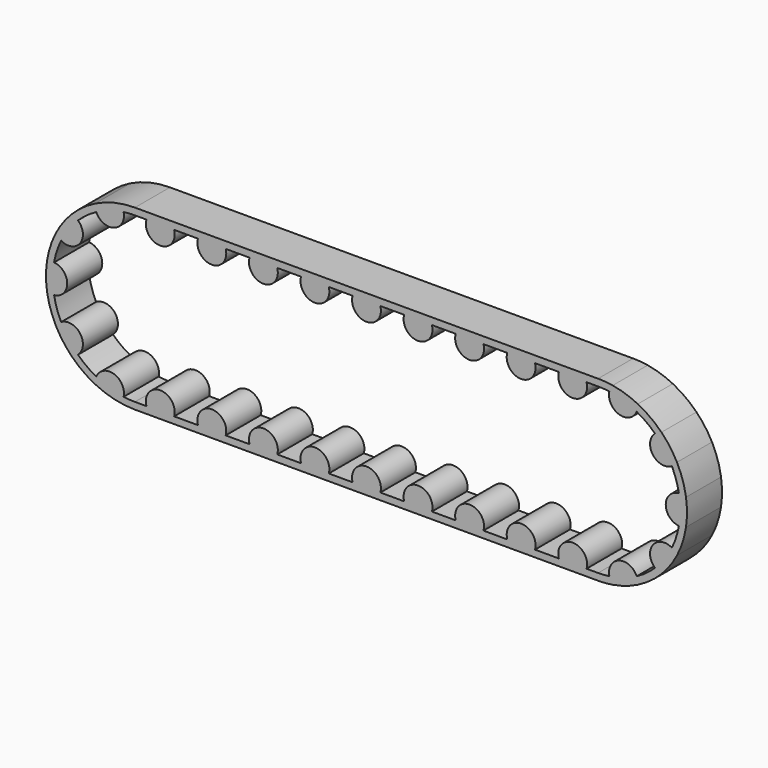
from build123d import *

# Parameters (mm, degrees)
F3_DEPTH = 25.4


with BuildPart() as f3:
    # F2 (on Front) → F3 (new body)
    with BuildSketch(Plane.XZ):
        with BuildLine():
            ThreePointArc((-6.5580901404, 47.171305671), (-3.2868824452, 47.5114410305), (0, 47.625))
            Line((0, 47.625), (6.6759446819, 47.625))
            ThreePointArc((6.6759446819, 47.625), (7.6523000339, 49.786472114), (9.1956373991, 51.5874))
            Line((9.1956373991, 51.5874), (0, 51.5874))
            ThreePointArc((0, 51.5874), (-4.2571154541, 51.4114462622), (-8.485190663, 50.8847853309))
            ThreePointArc((-8.485190663, 50.8847853309), (-7.2859359113, 49.1503637276), (-6.5580901404, 47.171305671))
        make_face()
        with BuildLine():
            ThreePointArc((-22.4209914306, 42.0171366024), (-14.7169343571, 45.2940665886), (-6.5580901404, 47.171305671))
            ThreePointArc((-6.5580901404, 47.171305671), (-7.2859359113, 49.1503637276), (-8.485190663, 50.8847853309))
            ThreePointArc((-8.485190663, 50.8847853309), (-15.9413832956, 49.0625329287), (-23.0446629367, 46.1541260224))
            ThreePointArc((-23.0446629367, 46.1541260224), (-22.9954129717, 44.0460452131), (-22.4209914306, 42.0171366024))
        make_face()
        with BuildLine():
            ThreePointArc((9.1956373991, 51.5874), (7.6523000339, 49.786472114), (6.6759446819, 47.625))
            Line((6.6759446819, 47.625), (22.7579240323, 47.625))
            ThreePointArc((22.7579240323, 47.625), (21.7815686803, 49.786472114), (20.2382313151, 51.5874))
            Line((20.2382313151, 51.5874), (9.1956373991, 51.5874))
        make_face()
        with BuildLine():
            ThreePointArc((-33.032204179, 34.307639267), (-27.9932726404, 38.5294343571), (-22.4209914306, 42.0171366024))
            ThreePointArc((-22.4209914306, 42.0171366024), (-22.9954129717, 44.0460452131), (-23.0446629367, 46.1541260224))
            ThreePointArc((-23.0446629367, 46.1541260224), (-30.3223129241, 41.7350832956), (-36.7739898304, 36.1791861533))
            ThreePointArc((-36.7739898304, 36.1791861533), (-34.7843049161, 35.4809138575), (-33.032204179, 34.307639267))
        make_face()
        with BuildLine():
            ThreePointArc((20.2382313151, 51.5874), (21.7815686803, 49.786472114), (22.7579240323, 47.625))
            Line((22.7579240323, 47.625), (36.5771902535, 47.625))
            ThreePointArc((36.5771902535, 47.625), (37.5535456055, 49.786472114), (39.0968829707, 51.5874))
            Line((39.0968829707, 51.5874), (20.2382313151, 51.5874))
        make_face()
        with BuildLine():
            ThreePointArc((-42.8360163366, 20.8138494617), (-38.5294343571, 27.9932726404), (-33.032204179, 34.307639267))
            ThreePointArc((-33.032204179, 34.307639267), (-34.7843049161, 35.4809138575), (-36.7739898304, 36.1791861533))
            ThreePointArc((-36.7739898304, 36.1791861533), (-41.7350832956, 30.3223129241), (-45.7722385539, 23.7941592944))
            ThreePointArc((-45.7722385539, 23.7941592944), (-44.4932956849, 22.1176344973), (-42.8360163366, 20.8138494617))
        make_face()
        with BuildLine():
            ThreePointArc((39.0968829707, 51.5874), (37.5535456055, 49.786472114), (36.5771902535, 47.625))
            Line((36.5771902535, 47.625), (52.6591696039, 47.625))
            ThreePointArc((52.6591696039, 47.625), (51.6828142519, 49.786472114), (50.1394768867, 51.5874))
            Line((50.1394768867, 51.5874), (39.0968829707, 51.5874))
        make_face()
        with BuildLine():
            ThreePointArc((-46.8891389446, 8.3396207368), (-45.2940665886, 14.7169343571), (-42.8360163366, 20.8138494617))
            ThreePointArc((-42.8360163366, 20.8138494617), (-44.4932956849, 22.1176344973), (-45.7722385539, 23.7941592944))
            ThreePointArc((-45.7722385539, 23.7941592944), (-49.0625329287, 15.9413832956), (-51.0163747846, 7.6543675504))
            ThreePointArc((-51.0163747846, 7.6543675504), (-48.9962517179, 8.2589608458), (-46.8891389446, 8.3396207368))
        make_face()
        with BuildLine():
            ThreePointArc((50.1394768867, 51.5874), (51.6828142519, 49.786472114), (52.6591696039, 47.625))
            Line((52.6591696039, 47.625), (66.478435825, 47.625))
            ThreePointArc((66.478435825, 47.625), (67.4547911771, 49.786472114), (68.9981285423, 51.5874))
            Line((68.9981285423, 51.5874), (50.1394768867, 51.5874))
        make_face()
        with BuildLine():
            ThreePointArc((-46.8891389446, -8.3396207368), (-47.625, 0), (-46.8891389446, 8.3396207368))
            ThreePointArc((-46.8891389446, 8.3396207368), (-48.9962517179, 8.2589608458), (-51.0163747846, 7.6543675504))
            ThreePointArc((-51.0163747846, 7.6543675504), (-51.5874, 0), (-51.0163747846, -7.6543675504))
            ThreePointArc((-51.0163747846, -7.6543675504), (-48.9962517179, -8.2589608458), (-46.8891389446, -8.3396207368))
        make_face()
        with BuildLine():
            ThreePointArc((68.9981285423, 51.5874), (67.4547911771, 49.786472114), (66.478435825, 47.625))
            Line((66.478435825, 47.625), (82.5604151755, 47.625))
            ThreePointArc((82.5604151755, 47.625), (81.5840598235, 49.786472114), (80.0407224583, 51.5874))
            Line((80.0407224583, 51.5874), (68.9981285423, 51.5874))
        make_face()
        with BuildLine():
            ThreePointArc((-42.8360163366, -20.8138494617), (-45.2940665886, -14.7169343571), (-46.8891389446, -8.3396207368))
            ThreePointArc((-46.8891389446, -8.3396207368), (-48.9962517179, -8.2589608458), (-51.0163747846, -7.6543675504))
            ThreePointArc((-51.0163747846, -7.6543675504), (-49.0625329287, -15.9413832956), (-45.7722385539, -23.7941592944))
            ThreePointArc((-45.7722385539, -23.7941592944), (-44.4932956849, -22.1176344973), (-42.8360163366, -20.8138494617))
        make_face()
        with BuildLine():
            ThreePointArc((80.0407224583, 51.5874), (81.5840598235, 49.786472114), (82.5604151755, 47.625))
            Line((82.5604151755, 47.625), (96.3796813966, 47.625))
            ThreePointArc((96.3796813966, 47.625), (97.3560367487, 49.786472114), (98.8993741139, 51.5874))
            Line((98.8993741139, 51.5874), (80.0407224583, 51.5874))
        make_face()
        with BuildLine():
            ThreePointArc((-33.032204179, -34.307639267), (-38.5294343571, -27.9932726404), (-42.8360163366, -20.8138494617))
            ThreePointArc((-42.8360163366, -20.8138494617), (-44.4932956849, -22.1176344973), (-45.7722385539, -23.7941592944))
            ThreePointArc((-45.7722385539, -23.7941592944), (-41.7350832956, -30.3223129241), (-36.7739898304, -36.1791861533))
            ThreePointArc((-36.7739898304, -36.1791861533), (-34.7843049161, -35.4809138575), (-33.032204179, -34.307639267))
        make_face()
        with BuildLine():
            ThreePointArc((98.8993741139, 51.5874), (97.3560367487, 49.786472114), (96.3796813966, 47.625))
            Line((96.3796813966, 47.625), (112.4616607471, 47.625))
            ThreePointArc((112.4616607471, 47.625), (111.485305395, 49.786472114), (109.9419680298, 51.5874))
            Line((109.9419680298, 51.5874), (98.8993741139, 51.5874))
        make_face()
        with BuildLine():
            ThreePointArc((-22.4209914306, -42.0171366024), (-27.9932726404, -38.5294343571), (-33.032204179, -34.307639267))
            ThreePointArc((-33.032204179, -34.307639267), (-34.7843049161, -35.4809138575), (-36.7739898304, -36.1791861533))
            ThreePointArc((-36.7739898304, -36.1791861533), (-30.3223129241, -41.7350832956), (-23.0446629367, -46.1541260224))
            ThreePointArc((-23.0446629367, -46.1541260224), (-22.9954129717, -44.0460452131), (-22.4209914306, -42.0171366024))
        make_face()
        with BuildLine():
            ThreePointArc((109.9419680298, 51.5874), (111.485305395, 49.786472114), (112.4616607471, 47.625))
            Line((112.4616607471, 47.625), (126.2809269682, 47.625))
            ThreePointArc((126.2809269682, 47.625), (127.2572823202, 49.786472114), (128.8006196855, 51.5874))
            Line((128.8006196855, 51.5874), (109.9419680298, 51.5874))
        make_face()
        with BuildLine():
            ThreePointArc((-6.5580901404, -47.171305671), (-14.7169343571, -45.2940665886), (-22.4209914306, -42.0171366024))
            ThreePointArc((-22.4209914306, -42.0171366024), (-22.9954129717, -44.0460452131), (-23.0446629367, -46.1541260224))
            ThreePointArc((-23.0446629367, -46.1541260224), (-15.9413832956, -49.0625329287), (-8.485190663, -50.8847853309))
            ThreePointArc((-8.485190663, -50.8847853309), (-7.2859359113, -49.1503637276), (-6.5580901404, -47.171305671))
        make_face()
        with BuildLine():
            ThreePointArc((128.8006196855, 51.5874), (127.2572823202, 49.786472114), (126.2809269682, 47.625))
            Line((126.2809269682, 47.625), (142.3629063187, 47.625))
            ThreePointArc((142.3629063187, 47.625), (141.3865509666, 49.786472114), (139.8432136014, 51.5874))
            Line((139.8432136014, 51.5874), (128.8006196855, 51.5874))
        make_face()
        with BuildLine():
            ThreePointArc((0, -47.625), (-3.2868824452, -47.5114410305), (-6.5580901404, -47.171305671))
            ThreePointArc((-6.5580901404, -47.171305671), (-7.2859359113, -49.1503637276), (-8.485190663, -50.8847853309))
            ThreePointArc((-8.485190663, -50.8847853309), (-4.2571154541, -51.4114462622), (0, -51.5874))
            Line((0, -51.5874), (9.1956373991, -51.5874))
            ThreePointArc((9.1956373991, -51.5874), (7.6523000339, -49.786472114), (6.6759446819, -47.625))
            Line((6.6759446819, -47.625), (0, -47.625))
        make_face()
        with BuildLine():
            ThreePointArc((139.8432136014, 51.5874), (141.3865509666, 49.786472114), (142.3629063187, 47.625))
            Line((142.3629063187, 47.625), (156.1821725398, 47.625))
            ThreePointArc((156.1821725398, 47.625), (157.1585278918, 49.786472114), (158.701865257, 51.5874))
            Line((158.701865257, 51.5874), (139.8432136014, 51.5874))
        make_face()
        with BuildLine():
            ThreePointArc((158.701865257, 51.5874), (157.1585278918, 49.786472114), (156.1821725398, 47.625))
            Line((156.1821725398, 47.625), (172.2641518903, 47.625))
            ThreePointArc((172.2641518903, 47.625), (171.2877965382, 49.786472114), (169.744459173, 51.5874))
            Line((169.744459173, 51.5874), (158.701865257, 51.5874))
        make_face()
        with BuildLine():
            Line((22.7579240323, -47.625), (6.6759446819, -47.625))
            ThreePointArc((6.6759446819, -47.625), (7.6523000339, -49.786472114), (9.1956373991, -51.5874))
            Line((9.1956373991, -51.5874), (20.2382313151, -51.5874))
            ThreePointArc((20.2382313151, -51.5874), (21.7815686803, -49.786472114), (22.7579240323, -47.625))
        make_face()
        with BuildLine():
            ThreePointArc((169.744459173, 51.5874), (171.2877965382, 49.786472114), (172.2641518903, 47.625))
            Line((172.2641518903, 47.625), (186.0834181114, 47.625))
            ThreePointArc((186.0834181114, 47.625), (187.0597734634, 49.786472114), (188.6031108286, 51.5874))
            Line((188.6031108286, 51.5874), (169.744459173, 51.5874))
        make_face()
        with BuildLine():
            Line((36.5771902535, -47.625), (22.7579240323, -47.625))
            ThreePointArc((22.7579240323, -47.625), (21.7815686803, -49.786472114), (20.2382313151, -51.5874))
            Line((20.2382313151, -51.5874), (39.0968829707, -51.5874))
            ThreePointArc((39.0968829707, -51.5874), (37.5535456055, -49.786472114), (36.5771902535, -47.625))
        make_face()
        with BuildLine():
            ThreePointArc((188.6031108286, 51.5874), (187.0597734634, 49.786472114), (186.0834181114, 47.625))
            Line((186.0834181114, 47.625), (202.1653974618, 47.625))
            ThreePointArc((202.1653974618, 47.625), (201.1890421098, 49.786472114), (199.6457047446, 51.5874))
            Line((199.6457047446, 51.5874), (188.6031108286, 51.5874))
        make_face()
        with BuildLine():
            Line((52.6591696039, -47.625), (36.5771902535, -47.625))
            ThreePointArc((36.5771902535, -47.625), (37.5535456055, -49.786472114), (39.0968829707, -51.5874))
            Line((39.0968829707, -51.5874), (50.1394768867, -51.5874))
            ThreePointArc((50.1394768867, -51.5874), (51.6828142519, -49.786472114), (52.6591696039, -47.625))
        make_face()
        with BuildLine():
            ThreePointArc((199.6457047446, 51.5874), (201.1890421098, 49.786472114), (202.1653974618, 47.625))
            Line((202.1653974618, 47.625), (215.984663683, 47.625))
            ThreePointArc((215.984663683, 47.625), (216.961019035, 49.786472114), (218.5043564002, 51.5874))
            Line((218.5043564002, 51.5874), (199.6457047446, 51.5874))
        make_face()
        with BuildLine():
            Line((66.478435825, -47.625), (52.6591696039, -47.625))
            ThreePointArc((52.6591696039, -47.625), (51.6828142519, -49.786472114), (50.1394768867, -51.5874))
            Line((50.1394768867, -51.5874), (68.9981285423, -51.5874))
            ThreePointArc((68.9981285423, -51.5874), (67.4547911771, -49.786472114), (66.478435825, -47.625))
        make_face()
        with BuildLine():
            ThreePointArc((218.5043564002, 51.5874), (216.961019035, 49.786472114), (215.984663683, 47.625))
            Line((215.984663683, 47.625), (232.0666430334, 47.625))
            ThreePointArc((232.0666430334, 47.625), (231.0902876814, 49.786472114), (229.5469503162, 51.5874))
            Line((229.5469503162, 51.5874), (218.5043564002, 51.5874))
        make_face()
        with BuildLine():
            Line((82.5604151755, -47.625), (66.478435825, -47.625))
            ThreePointArc((66.478435825, -47.625), (67.4547911771, -49.786472114), (68.9981285423, -51.5874))
            Line((68.9981285423, -51.5874), (80.0407224583, -51.5874))
            ThreePointArc((80.0407224583, -51.5874), (81.5840598235, -49.786472114), (82.5604151755, -47.625))
        make_face()
        with BuildLine():
            ThreePointArc((229.5469503162, 51.5874), (231.0902876814, 49.786472114), (232.0666430334, 47.625))
            Line((232.0666430334, 47.625), (245.8859092545, 47.625))
            ThreePointArc((245.8859092545, 47.625), (246.8622646066, 49.786472114), (248.4056019718, 51.5874))
            Line((248.4056019718, 51.5874), (229.5469503162, 51.5874))
        make_face()
        with BuildLine():
            Line((96.3796813966, -47.625), (82.5604151755, -47.625))
            ThreePointArc((82.5604151755, -47.625), (81.5840598235, -49.786472114), (80.0407224583, -51.5874))
            Line((80.0407224583, -51.5874), (98.8993741139, -51.5874))
            ThreePointArc((98.8993741139, -51.5874), (97.3560367487, -49.786472114), (96.3796813966, -47.625))
        make_face()
        with BuildLine():
            ThreePointArc((248.4056019718, 51.5874), (246.8622646066, 49.786472114), (245.8859092545, 47.625))
            Line((245.8859092545, 47.625), (261.967888605, 47.625))
            ThreePointArc((261.967888605, 47.625), (260.991533253, 49.786472114), (259.4481958878, 51.5874))
            Line((259.4481958878, 51.5874), (248.4056019718, 51.5874))
        make_face()
        with BuildLine():
            Line((112.4616607471, -47.625), (96.3796813966, -47.625))
            ThreePointArc((96.3796813966, -47.625), (97.3560367487, -49.786472114), (98.8993741139, -51.5874))
            Line((98.8993741139, -51.5874), (109.9419680298, -51.5874))
            ThreePointArc((109.9419680298, -51.5874), (111.485305395, -49.786472114), (112.4616607471, -47.625))
        make_face()
        with BuildLine():
            ThreePointArc((259.4481958878, 51.5874), (260.991533253, 49.786472114), (261.967888605, 47.625))
            Line((261.967888605, 47.625), (268.6438332869, 47.625))
            ThreePointArc((268.6438332869, 47.625), (271.930715732, 47.5114410305), (275.2019234272, 47.171305671))
            ThreePointArc((275.2019234272, 47.171305671), (275.9297691982, 49.1503637276), (277.1290239498, 50.8847853309))
            ThreePointArc((277.1290239498, 50.8847853309), (272.900948741, 51.4114462622), (268.6438332869, 51.5874))
            Line((268.6438332869, 51.5874), (259.4481958878, 51.5874))
        make_face()
        with BuildLine():
            Line((126.2809269682, -47.625), (112.4616607471, -47.625))
            ThreePointArc((112.4616607471, -47.625), (111.485305395, -49.786472114), (109.9419680298, -51.5874))
            Line((109.9419680298, -51.5874), (128.8006196855, -51.5874))
            ThreePointArc((128.8006196855, -51.5874), (127.2572823202, -49.786472114), (126.2809269682, -47.625))
        make_face()
        with BuildLine():
            Line((142.3629063187, -47.625), (126.2809269682, -47.625))
            ThreePointArc((126.2809269682, -47.625), (127.2572823202, -49.786472114), (128.8006196855, -51.5874))
            Line((128.8006196855, -51.5874), (139.8432136014, -51.5874))
            ThreePointArc((139.8432136014, -51.5874), (141.3865509666, -49.786472114), (142.3629063187, -47.625))
        make_face()
        with BuildLine():
            ThreePointArc((277.1290239498, 50.8847853309), (275.9297691982, 49.1503637276), (275.2019234272, 47.171305671))
            ThreePointArc((275.2019234272, 47.171305671), (283.360767644, 45.2940665886), (291.0648247175, 42.0171366024))
            ThreePointArc((291.0648247175, 42.0171366024), (291.6392462586, 44.0460452131), (291.6884962236, 46.1541260224))
            ThreePointArc((291.6884962236, 46.1541260224), (284.5852165825, 49.0625329287), (277.1290239498, 50.8847853309))
        make_face()
        with BuildLine():
            Line((156.1821725398, -47.625), (142.3629063187, -47.625))
            ThreePointArc((142.3629063187, -47.625), (141.3865509666, -49.786472114), (139.8432136014, -51.5874))
            Line((139.8432136014, -51.5874), (158.701865257, -51.5874))
            ThreePointArc((158.701865257, -51.5874), (157.1585278918, -49.786472114), (156.1821725398, -47.625))
        make_face()
        with BuildLine():
            ThreePointArc((291.6884962236, 46.1541260224), (291.6392462586, 44.0460452131), (291.0648247175, 42.0171366024))
            ThreePointArc((291.0648247175, 42.0171366024), (296.6371059273, 38.5294343571), (301.6760374659, 34.307639267))
            ThreePointArc((301.6760374659, 34.307639267), (303.4281382029, 35.4809138575), (305.4178231173, 36.1791861533))
            ThreePointArc((305.4178231173, 36.1791861533), (298.966146211, 41.7350832956), (291.6884962236, 46.1541260224))
        make_face()
        with BuildLine():
            Line((172.2641518903, -47.625), (156.1821725398, -47.625))
            ThreePointArc((156.1821725398, -47.625), (157.1585278918, -49.786472114), (158.701865257, -51.5874))
            Line((158.701865257, -51.5874), (169.744459173, -51.5874))
            ThreePointArc((169.744459173, -51.5874), (171.2877965382, -49.786472114), (172.2641518903, -47.625))
        make_face()
        with BuildLine():
            ThreePointArc((305.4178231173, 36.1791861533), (303.4281382029, 35.4809138575), (301.6760374659, 34.307639267))
            ThreePointArc((301.6760374659, 34.307639267), (307.173267644, 27.9932726404), (311.4798496235, 20.8138494617))
            ThreePointArc((311.4798496235, 20.8138494617), (313.1371289717, 22.1176344973), (314.4160718408, 23.7941592944))
            ThreePointArc((314.4160718408, 23.7941592944), (310.3789165825, 30.3223129241), (305.4178231173, 36.1791861533))
        make_face()
        with BuildLine():
            Line((186.0834181114, -47.625), (172.2641518903, -47.625))
            ThreePointArc((172.2641518903, -47.625), (171.2877965382, -49.786472114), (169.744459173, -51.5874))
            Line((169.744459173, -51.5874), (188.6031108286, -51.5874))
            ThreePointArc((188.6031108286, -51.5874), (187.0597734634, -49.786472114), (186.0834181114, -47.625))
        make_face()
        with BuildLine():
            ThreePointArc((314.4160718408, 23.7941592944), (313.1371289717, 22.1176344973), (311.4798496235, 20.8138494617))
            ThreePointArc((311.4798496235, 20.8138494617), (313.9378998754, 14.7169343571), (315.5329722315, 8.3396207368))
            ThreePointArc((315.5329722315, 8.3396207368), (317.6400850048, 8.2589608458), (319.6602080715, 7.6543675504))
            ThreePointArc((319.6602080715, 7.6543675504), (317.7063662156, 15.9413832956), (314.4160718408, 23.7941592944))
        make_face()
        with BuildLine():
            Line((202.1653974618, -47.625), (186.0834181114, -47.625))
            ThreePointArc((186.0834181114, -47.625), (187.0597734634, -49.786472114), (188.6031108286, -51.5874))
            Line((188.6031108286, -51.5874), (199.6457047446, -51.5874))
            ThreePointArc((199.6457047446, -51.5874), (201.1890421098, -49.786472114), (202.1653974618, -47.625))
        make_face()
        with BuildLine():
            ThreePointArc((319.6602080715, 7.6543675504), (317.6400850048, 8.2589608458), (315.5329722315, 8.3396207368))
            ThreePointArc((315.5329722315, 8.3396207368), (316.2688332869, 0), (315.5329722315, -8.3396207368))
            ThreePointArc((315.5329722315, -8.3396207368), (317.6400850048, -8.2589608458), (319.6602080715, -7.6543675504))
            ThreePointArc((319.6602080715, -7.6543675504), (320.2312332869, 0), (319.6602080715, 7.6543675504))
        make_face()
        with BuildLine():
            Line((215.984663683, -47.625), (202.1653974618, -47.625))
            ThreePointArc((202.1653974618, -47.625), (201.1890421098, -49.786472114), (199.6457047446, -51.5874))
            Line((199.6457047446, -51.5874), (218.5043564002, -51.5874))
            ThreePointArc((218.5043564002, -51.5874), (216.961019035, -49.786472114), (215.984663683, -47.625))
        make_face()
        with BuildLine():
            ThreePointArc((319.6602080715, -7.6543675504), (317.6400850048, -8.2589608458), (315.5329722315, -8.3396207368))
            ThreePointArc((315.5329722315, -8.3396207368), (313.9378998754, -14.7169343571), (311.4798496235, -20.8138494617))
            ThreePointArc((311.4798496235, -20.8138494617), (313.1371289717, -22.1176344973), (314.4160718408, -23.7941592944))
            ThreePointArc((314.4160718408, -23.7941592944), (317.7063662156, -15.9413832956), (319.6602080715, -7.6543675504))
        make_face()
        with BuildLine():
            Line((232.0666430334, -47.625), (215.984663683, -47.625))
            ThreePointArc((215.984663683, -47.625), (216.961019035, -49.786472114), (218.5043564002, -51.5874))
            Line((218.5043564002, -51.5874), (229.5469503162, -51.5874))
            ThreePointArc((229.5469503162, -51.5874), (231.0902876814, -49.786472114), (232.0666430334, -47.625))
        make_face()
        with BuildLine():
            ThreePointArc((314.4160718408, -23.7941592944), (313.1371289717, -22.1176344973), (311.4798496235, -20.8138494617))
            ThreePointArc((311.4798496235, -20.8138494617), (307.173267644, -27.9932726404), (301.6760374659, -34.307639267))
            ThreePointArc((301.6760374659, -34.307639267), (303.4281382029, -35.4809138575), (305.4178231173, -36.1791861533))
            ThreePointArc((305.4178231173, -36.1791861533), (310.3789165825, -30.3223129241), (314.4160718408, -23.7941592944))
        make_face()
        with BuildLine():
            Line((245.8859092545, -47.625), (232.0666430334, -47.625))
            ThreePointArc((232.0666430334, -47.625), (231.0902876814, -49.786472114), (229.5469503162, -51.5874))
            Line((229.5469503162, -51.5874), (248.4056019718, -51.5874))
            ThreePointArc((248.4056019718, -51.5874), (246.8622646066, -49.786472114), (245.8859092545, -47.625))
        make_face()
        with BuildLine():
            ThreePointArc((305.4178231173, -36.1791861533), (303.4281382029, -35.4809138575), (301.6760374659, -34.307639267))
            ThreePointArc((301.6760374659, -34.307639267), (296.6371059273, -38.5294343571), (291.0648247175, -42.0171366024))
            ThreePointArc((291.0648247175, -42.0171366024), (291.6392462586, -44.0460452131), (291.6884962236, -46.1541260224))
            ThreePointArc((291.6884962236, -46.1541260224), (298.966146211, -41.7350832956), (305.4178231173, -36.1791861533))
        make_face()
        with BuildLine():
            Line((261.967888605, -47.625), (245.8859092545, -47.625))
            ThreePointArc((245.8859092545, -47.625), (246.8622646066, -49.786472114), (248.4056019718, -51.5874))
            Line((248.4056019718, -51.5874), (259.4481958878, -51.5874))
            ThreePointArc((259.4481958878, -51.5874), (260.991533253, -49.786472114), (261.967888605, -47.625))
        make_face()
        with BuildLine():
            ThreePointArc((291.6884962236, -46.1541260224), (291.6392462586, -44.0460452131), (291.0648247175, -42.0171366024))
            ThreePointArc((291.0648247175, -42.0171366024), (283.360767644, -45.2940665886), (275.2019234272, -47.171305671))
            ThreePointArc((275.2019234272, -47.171305671), (275.9297691982, -49.1503637276), (277.1290239498, -50.8847853309))
            ThreePointArc((277.1290239498, -50.8847853309), (284.5852165825, -49.0625329287), (291.6884962236, -46.1541260224))
        make_face()
        with BuildLine():
            Line((268.6438332869, -47.625), (261.967888605, -47.625))
            ThreePointArc((261.967888605, -47.625), (260.991533253, -49.786472114), (259.4481958878, -51.5874))
            Line((259.4481958878, -51.5874), (268.6438332869, -51.5874))
            ThreePointArc((268.6438332869, -51.5874), (272.900948741, -51.4114462622), (277.1290239498, -50.8847853309))
            ThreePointArc((277.1290239498, -50.8847853309), (275.9297691982, -49.1503637276), (275.2019234272, -47.171305671))
            ThreePointArc((275.2019234272, -47.171305671), (271.930715732, -47.5114410305), (268.6438332869, -47.625))
        make_face()
        with BuildLine():
            ThreePointArc((-33.032204179, -34.307639267), (-31.7563256461, -23.0723211151), (-42.8360163366, -20.8138494617))
            ThreePointArc((-42.8360163366, -20.8138494617), (-38.5294343571, -27.9932726404), (-33.032204179, -34.307639267))
        make_face()
        with BuildLine():
            ThreePointArc((-46.8891389446, -8.3396207368), (-39.2529772142, 0), (-46.8891389446, 8.3396207368))
            ThreePointArc((-46.8891389446, 8.3396207368), (-47.625, 0), (-46.8891389446, -8.3396207368))
        make_face()
        with BuildLine():
            ThreePointArc((-6.5580901404, -47.171305671), (-12.129837039, -37.3317997636), (-22.4209914306, -42.0171366024))
            ThreePointArc((-22.4209914306, -42.0171366024), (-14.7169343571, -45.2940665886), (-6.5580901404, -47.171305671))
        make_face()
        with BuildLine():
            ThreePointArc((22.7579240323, -47.625), (14.7169343571, -36.9220438028), (6.6759446819, -47.625))
            Line((6.6759446819, -47.625), (22.7579240323, -47.625))
        make_face()
        with BuildLine():
            ThreePointArc((52.6591696039, -47.625), (44.6181799287, -36.9220438028), (36.5771902535, -47.625))
            Line((36.5771902535, -47.625), (52.6591696039, -47.625))
        make_face()
        with BuildLine():
            ThreePointArc((82.5604151755, -47.625), (74.5194255003, -36.9220438028), (66.478435825, -47.625))
            Line((66.478435825, -47.625), (82.5604151755, -47.625))
        make_face()
        with BuildLine():
            ThreePointArc((-42.8360163366, 20.8138494617), (-31.7563256461, 23.0723211151), (-33.032204179, 34.307639267))
            ThreePointArc((-33.032204179, 34.307639267), (-38.5294343571, 27.9932726404), (-42.8360163366, 20.8138494617))
        make_face()
        with BuildLine():
            ThreePointArc((-22.4209914306, 42.0171366024), (-12.129837039, 37.3317997636), (-6.5580901404, 47.171305671))
            ThreePointArc((-6.5580901404, 47.171305671), (-14.7169343571, 45.2940665886), (-22.4209914306, 42.0171366024))
        make_face()
        with BuildLine():
            Line((22.7579240323, 47.625), (6.6759446819, 47.625))
            ThreePointArc((6.6759446819, 47.625), (14.7169343571, 36.9220438028), (22.7579240323, 47.625))
        make_face()
        with BuildLine():
            Line((52.6591696039, 47.625), (36.5771902535, 47.625))
            ThreePointArc((36.5771902535, 47.625), (44.6181799287, 36.9220438028), (52.6591696039, 47.625))
        make_face()
        with BuildLine():
            Line((82.5604151755, 47.625), (66.478435825, 47.625))
            ThreePointArc((66.478435825, 47.625), (74.5194255003, 36.9220438028), (82.5604151755, 47.625))
        make_face()
        with BuildLine():
            Line((112.4616607471, 47.625), (96.3796813966, 47.625))
            ThreePointArc((96.3796813966, 47.625), (104.4206710719, 36.9220438028), (112.4616607471, 47.625))
        make_face()
        with BuildLine():
            Line((142.3629063187, 47.625), (126.2809269682, 47.625))
            ThreePointArc((126.2809269682, 47.625), (134.3219166434, 36.9220438028), (142.3629063187, 47.625))
        make_face()
        with BuildLine():
            Line((172.2641518903, 47.625), (156.1821725398, 47.625))
            ThreePointArc((156.1821725398, 47.625), (164.223162215, 36.9220438028), (172.2641518903, 47.625))
        make_face()
        with BuildLine():
            Line((202.1653974618, 47.625), (186.0834181114, 47.625))
            ThreePointArc((186.0834181114, 47.625), (194.1244077866, 36.9220438028), (202.1653974618, 47.625))
        make_face()
        with BuildLine():
            Line((232.0666430334, 47.625), (215.984663683, 47.625))
            ThreePointArc((215.984663683, 47.625), (224.0256533582, 36.9220438028), (232.0666430334, 47.625))
        make_face()
        with BuildLine():
            Line((261.967888605, 47.625), (245.8859092545, 47.625))
            ThreePointArc((245.8859092545, 47.625), (253.9268989298, 36.9220438028), (261.967888605, 47.625))
        make_face()
        with BuildLine():
            ThreePointArc((291.0648247175, 42.0171366024), (283.360767644, 45.2940665886), (275.2019234272, 47.171305671))
            ThreePointArc((275.2019234272, 47.171305671), (280.7736703259, 37.3317997636), (291.0648247175, 42.0171366024))
        make_face()
        with BuildLine():
            ThreePointArc((311.4798496235, 20.8138494617), (307.173267644, 27.9932726404), (301.6760374659, 34.307639267))
            ThreePointArc((301.6760374659, 34.307639267), (300.400158933, 23.0723211151), (311.4798496235, 20.8138494617))
        make_face()
        with BuildLine():
            ThreePointArc((315.5329722315, -8.3396207368), (316.2688332869, 0), (315.5329722315, 8.3396207368))
            ThreePointArc((315.5329722315, 8.3396207368), (307.8968105011, 0), (315.5329722315, -8.3396207368))
        make_face()
        with BuildLine():
            ThreePointArc((301.6760374659, -34.307639267), (307.173267644, -27.9932726404), (311.4798496235, -20.8138494617))
            ThreePointArc((311.4798496235, -20.8138494617), (300.400158933, -23.0723211151), (301.6760374659, -34.307639267))
        make_face()
        with BuildLine():
            ThreePointArc((275.2019234272, -47.171305671), (283.360767644, -45.2940665886), (291.0648247175, -42.0171366024))
            ThreePointArc((291.0648247175, -42.0171366024), (280.7736703259, -37.3317997636), (275.2019234272, -47.171305671))
        make_face()
        with BuildLine():
            ThreePointArc((261.967888605, -47.625), (253.9268989298, -36.9220438028), (245.8859092545, -47.625))
            Line((245.8859092545, -47.625), (261.967888605, -47.625))
        make_face()
        with BuildLine():
            ThreePointArc((232.0666430334, -47.625), (224.0256533582, -36.9220438028), (215.984663683, -47.625))
            Line((215.984663683, -47.625), (232.0666430334, -47.625))
        make_face()
        with BuildLine():
            ThreePointArc((202.1653974618, -47.625), (194.1244077866, -36.9220438028), (186.0834181114, -47.625))
            Line((186.0834181114, -47.625), (202.1653974618, -47.625))
        make_face()
        with BuildLine():
            ThreePointArc((172.2641518903, -47.625), (164.223162215, -36.9220438028), (156.1821725398, -47.625))
            Line((156.1821725398, -47.625), (172.2641518903, -47.625))
        make_face()
        with BuildLine():
            ThreePointArc((142.3629063187, -47.625), (134.3219166434, -36.9220438028), (126.2809269682, -47.625))
            Line((126.2809269682, -47.625), (142.3629063187, -47.625))
        make_face()
        with BuildLine():
            ThreePointArc((112.4616607471, -47.625), (104.4206710719, -36.9220438028), (96.3796813966, -47.625))
            Line((96.3796813966, -47.625), (112.4616607471, -47.625))
        make_face()
    extrude(amount=F3_DEPTH)


solid = f3.part
